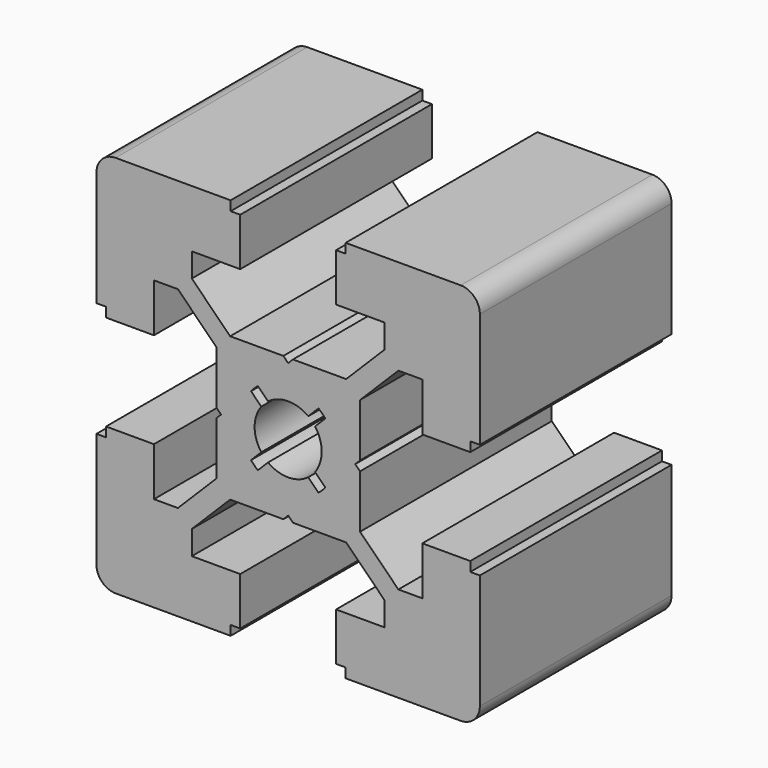
from build123d import *

# Parameters (mm, degrees)
F1_DEPTH = 25


with BuildPart() as f1:
    # F0 (on Front) → F1 (new body)
    with BuildSketch(Plane.XZ):
        with BuildLine():
            ThreePointArc((0, 2), (0.5857864376, 0.5857864376), (2, 0))
            Line((2, 0), (14, 0))
            Line((14, 0), (14, 1))
            Line((14, 1), (15, 1))
            Line((15, 1), (15, 6))
            Line((15, 6), (9.95, 6))
            Line((9.95, 6), (9.95, 8.5))
            Line((9.95, 8.5), (13.95, 12.5))
            Line((13.95, 12.5), (19.5, 12.5))
            Line((19.5, 12.5), (20, 13))
            Line((20, 13), (20.5, 12.5))
            Line((20.5, 12.5), (26.05, 12.5))
            Line((26.05, 12.5), (30.05, 8.5))
            Line((30.05, 8.5), (30.05, 6))
            Line((30.05, 6), (25, 6))
            Line((25, 6), (25, 1))
            Line((25, 1), (26, 1))
            Line((26, 1), (26, 0))
            Line((26, 0), (38, 0))
            ThreePointArc((38, 0), (39.4142135624, 0.5857864376), (40, 2))
            Line((40, 2), (40, 14))
            Line((40, 14), (39, 14))
            Line((39, 14), (39, 15))
            Line((39, 15), (34, 15))
            Line((34, 15), (34, 9.95))
            Line((34, 9.95), (31.5, 9.95))
            Line((31.5, 9.95), (27.5, 13.95))
            Line((27.5, 13.95), (27.5, 19.5))
            Line((27.5, 19.5), (27, 20))
            Line((27, 20), (27.5, 20.5))
            Line((27.5, 20.5), (27.5, 26.05))
            Line((27.5, 26.05), (31.5, 30.05))
            Line((31.5, 30.05), (34, 30.05))
            Line((34, 30.05), (34, 25))
            Line((34, 25), (39, 25))
            Line((39, 25), (39, 26))
            Line((39, 26), (40, 26))
            Line((40, 26), (40, 38))
            ThreePointArc((40, 38), (39.4142135624, 39.4142135624), (38, 40))
            Line((38, 40), (26, 40))
            Line((26, 40), (26, 39))
            Line((26, 39), (25, 39))
            Line((25, 39), (25, 34))
            Line((25, 34), (30.05, 34))
            Line((30.05, 34), (30.05, 31.5))
            Line((30.05, 31.5), (26.05, 27.5))
            Line((26.05, 27.5), (20.5, 27.5))
            Line((20.5, 27.5), (20, 27))
            Line((20, 27), (19.5, 27.5))
            Line((19.5, 27.5), (13.95, 27.5))
            Line((13.95, 27.5), (9.95, 31.5))
            Line((9.95, 31.5), (9.95, 34))
            Line((9.95, 34), (15, 34))
            Line((15, 34), (15, 39))
            Line((15, 39), (14, 39))
            Line((14, 39), (14, 40))
            Line((14, 40), (2, 40))
            ThreePointArc((2, 40), (0.5857864376, 39.4142135624), (0, 38))
            Line((0, 38), (0, 26))
            Line((0, 26), (1, 26))
            Line((1, 26), (1, 25))
            Line((1, 25), (6, 25))
            Line((6, 25), (6, 30.05))
            Line((6, 30.05), (8.5, 30.05))
            Line((8.5, 30.05), (12.5, 26.05))
            Line((12.5, 26.05), (12.5, 20.5))
            Line((12.5, 20.5), (13, 20))
            Line((13, 20), (12.5, 19.5))
            Line((12.5, 19.5), (12.5, 13.95))
            Line((12.5, 13.95), (8.5, 9.95))
            Line((8.5, 9.95), (6, 9.95))
            Line((6, 9.95), (6, 15))
            Line((6, 15), (1, 15))
            Line((1, 15), (1, 14))
            Line((1, 14), (0, 14))
            Line((0, 14), (0, 2))
        make_face()
        with BuildLine():
            ThreePointArc((23.8713652105, 23.1642584293), (24.7093962486, 21.6797580105), (25, 20))
            ThreePointArc((25, 20), (24.7093962486, 18.3202419895), (23.8713652105, 16.8357415707))
            ThreePointArc((23.8713652105, 16.8357415707), (23.5355339059, 16.4644660941), (23.1642584293, 16.1286347895))
            ThreePointArc((23.1642584293, 16.1286347895), (20, 15), (16.8357415707, 16.1286347895))
            ThreePointArc((16.8357415707, 16.1286347895), (16.4644660941, 16.4644660941), (16.1286347895, 16.8357415707))
            ThreePointArc((16.1286347895, 16.8357415707), (15, 20), (16.1286347895, 23.1642584293))
            ThreePointArc((16.1286347895, 23.1642584293), (16.4644660941, 23.5355339059), (16.8357415707, 23.8713652105))
            ThreePointArc((16.8357415707, 23.8713652105), (20, 25), (23.1642584293, 23.8713652105))
            ThreePointArc((23.1642584293, 23.8713652105), (23.5355339059, 23.5355339059), (23.8713652105, 23.1642584293))
        make_face(mode=Mode.SUBTRACT)
        with BuildLine():
            Line((17.1969568666, 22.0959363522), (16.1286347895, 23.1642584293))
            ThreePointArc((16.1286347895, 23.1642584293), (15, 20), (16.1286347895, 16.8357415707))
            Line((16.1286347895, 16.8357415707), (17.1969568666, 17.9040636478))
            ThreePointArc((17.1969568666, 17.9040636478), (16.5, 20), (17.1969568666, 22.0959363522))
        make_face()
        with BuildLine():
            ThreePointArc((16.8357415707, 16.1286347895), (20, 15), (23.1642584293, 16.1286347895))
            Line((23.1642584293, 16.1286347895), (22.0959363522, 17.1969568666))
            ThreePointArc((22.0959363522, 17.1969568666), (20, 16.5), (17.9040636478, 17.1969568666))
            Line((17.9040636478, 17.1969568666), (16.8357415707, 16.1286347895))
        make_face()
        with BuildLine():
            ThreePointArc((23.8713652105, 16.8357415707), (24.7093962486, 18.3202419895), (25, 20))
            ThreePointArc((25, 20), (24.7093962486, 21.6797580105), (23.8713652105, 23.1642584293))
            Line((23.8713652105, 23.1642584293), (22.8030431334, 22.0959363522))
            ThreePointArc((22.8030431334, 22.0959363522), (23.3211933824, 21.1043887525), (23.5, 20))
            ThreePointArc((23.5, 20), (23.3211933824, 18.8956112475), (22.8030431334, 17.9040636478))
            Line((22.8030431334, 17.9040636478), (23.8713652105, 16.8357415707))
        make_face()
        with BuildLine():
            Line((22.0959363522, 22.8030431334), (23.1642584293, 23.8713652105))
            ThreePointArc((23.1642584293, 23.8713652105), (20, 25), (16.8357415707, 23.8713652105))
            Line((16.8357415707, 23.8713652105), (17.9040636478, 22.8030431334))
            ThreePointArc((17.9040636478, 22.8030431334), (20, 23.5), (22.0959363522, 22.8030431334))
        make_face()
    extrude(amount=F1_DEPTH)


solid = f1.part
